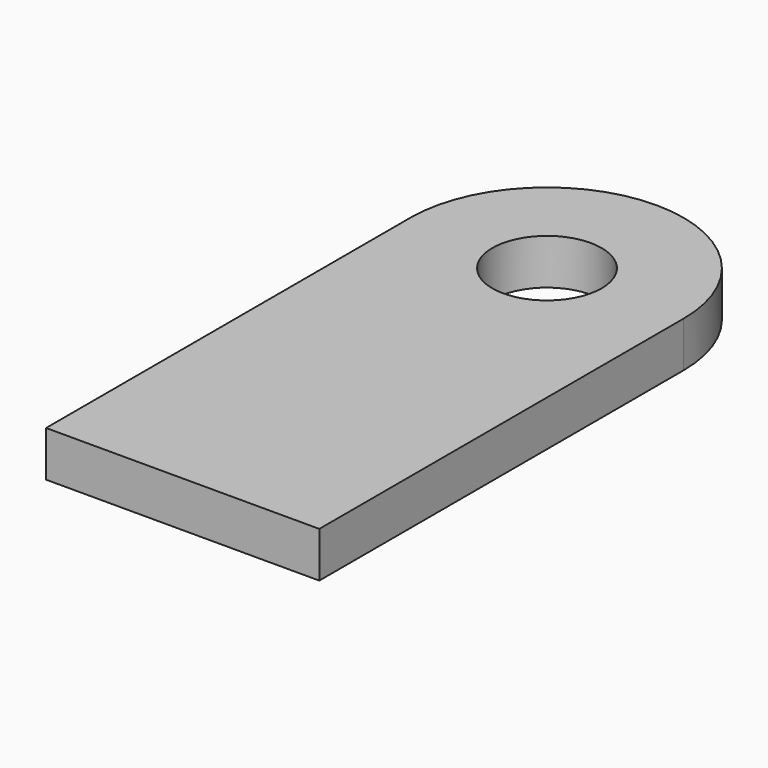
from build123d import *

# Parameters (mm, degrees)
F0_R     = 6
F1_DEPTH = 5


with BuildPart() as f1:
    # F0 (on Top) → F1 (new body)
    with BuildSketch(Plane.XY):
        with BuildLine():
            Line((-15, 50), (-15, 0))
            Line((-15, 0), (15, 0))
            Line((15, 0), (15, 50))
            ThreePointArc((15, 50), (0, 65), (-15, 50))
        make_face()
        with Locations((0, 50)):
            Circle(F0_R, mode=Mode.SUBTRACT)
    extrude(amount=F1_DEPTH)


solid = f1.part
